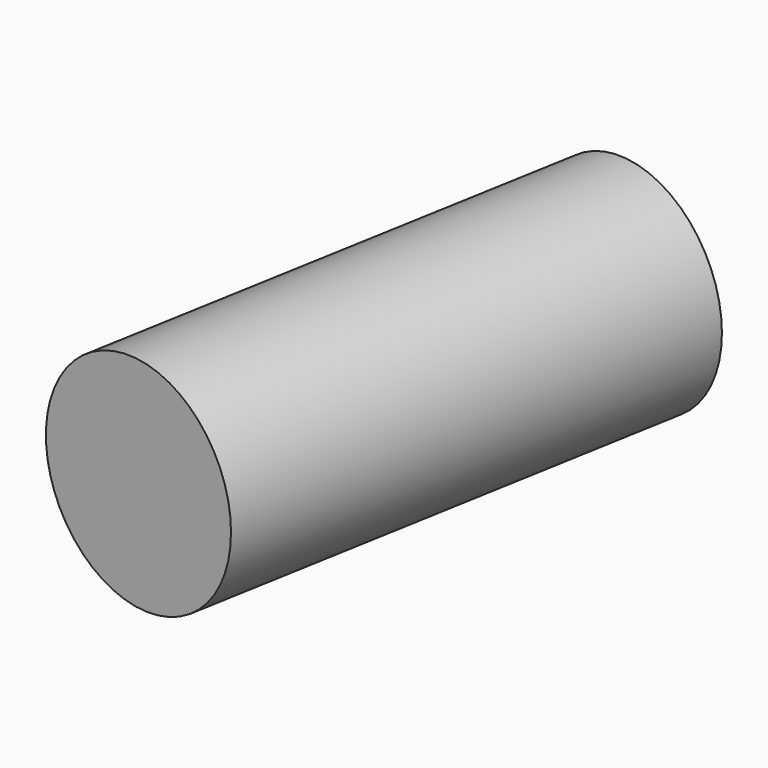
from build123d import *

# Parameters (mm, degrees)
CYLINDER038_R               = 1.25
CYLINDER038_DEPTH           = 14
CYLINDER038_ROLL_ANGLE      = -89.999776
CYLINDER038_PITCH_ANGLE     = 1.4e-05
CYLINDER038_PLACEMENT_ANGLE = -9.999925
CYLINDER027_R               = 3
CYLINDER027_DEPTH           = 14
CYLINDER027_ROLL_ANGLE      = -89.999776
CYLINDER027_PITCH_ANGLE     = 1.4e-05
CYLINDER027_PLACEMENT_ANGLE = -9.999925


with BuildPart() as cylinder038:
    # Cylinder038 → Cylinder038 (new body)
    with BuildSketch(Plane.XY):
        Circle(CYLINDER038_R)
    extrude(amount=CYLINDER038_DEPTH)


with BuildPart() as cylinder038_1:
    # Cylinder038 roll: moved
    add(cylinder038.part.rotate(Axis((0, 0, 0), (1, 0, 0)), CYLINDER038_ROLL_ANGLE))


with BuildPart() as cylinder038_2:
    # Cylinder038 pitch: moved
    add(cylinder038_1.part.rotate(Axis((0, 0, 0), (0, 1, 0)), CYLINDER038_PITCH_ANGLE))


with BuildPart() as cylinder038_3:
    # Cylinder038 placement: moved
    add(cylinder038_2.part.moved(Location((32.055183, -23.766017, 7.500006))).rotate(Axis((32.055183, -23.766017, 7.500006), (0, 0, 1)), CYLINDER038_PLACEMENT_ANGLE))


with BuildPart() as cut032:
    # Cylinder027 → Cylinder027 (new body)
    with BuildSketch(Plane.XY):
        Circle(CYLINDER027_R)
    extrude(amount=CYLINDER027_DEPTH)


with BuildPart() as cut032_1:
    # Cylinder027 roll: moved
    add(cut032.part.rotate(Axis((0, 0, 0), (1, 0, 0)), CYLINDER027_ROLL_ANGLE))


with BuildPart() as cut032_2:
    # Cylinder027 pitch: moved
    add(cut032_1.part.rotate(Axis((0, 0, 0), (0, 1, 0)), CYLINDER027_PITCH_ANGLE))


with BuildPart() as cut032_3:
    # Cylinder027 placement: moved
    add(cut032_2.part.moved(Location((31.710772, -25.735381, 7.500001))).rotate(Axis((31.710772, -25.735381, 7.500001), (0, 0, 1)), CYLINDER027_PLACEMENT_ANGLE))

    # Cut032: cut Cylinder038
    add(cylinder038_3.part, mode=Mode.SUBTRACT)


solid = cut032_3.part
